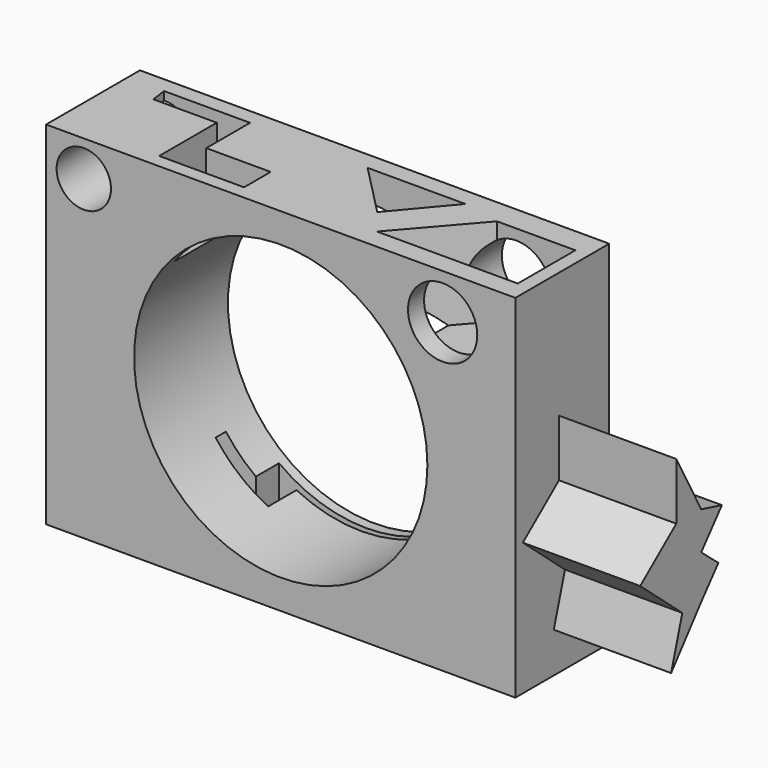
from build123d import *

# Parameters (mm, degrees)
F0_W      = 101.6
F0_H      = 76.2
F1_DEPTH  = 25.4
F2_R      = 31.75
F3_DEPTH  = 25.4
F3_FACE_R = 31.75
F4_DEPTH  = 50.801
F5_R      = 5.884043
F6_DEPTH  = 25.401
F7_R      = 7.500717
F8_DEPTH  = 25.401
F10_DEPTH = 19.05
F12_DEPTH = 19.05
F14_DEPTH = 19.05
F16_DEPTH = 19.05
F18_DEPTH = 25.4


with BuildPart() as f1:
    # F0 (on Front) → F1 (new body)
    with BuildSketch(Plane.XZ):
        with Locations((50.8, 38.1)):
            Rectangle(F0_W, F0_H)
    extrude(amount=F1_DEPTH)

    # F2 (on face) → F3 (join)
    with BuildSketch(Plane.XZ.offset(25.4)):
        with Locations((50.8, 38.1)):
            Circle(F2_R)
    extrude(amount=F3_DEPTH)

    # F3_face (on face) → F4 (cut, through all)
    with BuildSketch(Plane(origin=(50.8, -50.8, 38.1), x_dir=(1, 0, 0), z_dir=(0, -1, 0))):
        Circle(F3_FACE_R)
    extrude(amount=-F4_DEPTH, mode=Mode.SUBTRACT)

    # F5 (on face) → F6 (cut, through all)
    with BuildSketch(Plane.XZ.offset(25.4)):
        with Locations((8.164548, 68.496935)):
            Circle(F5_R)
    extrude(amount=-F6_DEPTH, mode=Mode.SUBTRACT)

    # F7 (on face) → F8 (cut, through all)
    with BuildSketch(Plane.XZ.offset(25.4)):
        with Locations((85.848674, 66.40365)):
            Circle(F7_R)
    extrude(amount=-F8_DEPTH, mode=Mode.SUBTRACT)

    # F9 (on face) → F10 (cut)
    with BuildSketch(Plane.XY.offset(76.2)):
        Polygon((73.521554, -3.837689), (52.356116, -3.837689), (63.75289, -15.46705), align=None)
    extrude(amount=-F10_DEPTH, mode=Mode.SUBTRACT)

    # F11 (on face) → F12 (cut)
    with BuildSketch(Plane.XY.offset(76.2)):
        Polygon((26.538938, -3.372515), (7.931962, -3.372515), (8.397136, -6.861323), (22.119781, -6.861323), (22.119781, -22.444667), (26.538938, -22.444667), (40.49417, -22.444667), (40.49417, -15.234463), (26.538938, -15.234463), align=None)
    extrude(amount=-F12_DEPTH, mode=Mode.SUBTRACT)

    # F13 (on face) → F14 (cut)
    with BuildSketch(Plane.XY.offset(76.2)):
        Polygon((98.640978, -5.465799), (81.662104, -5.465799), (68.172053, -21.049144), (98.640978, -21.049144), align=None)
    extrude(amount=-F14_DEPTH, mode=Mode.SUBTRACT)

    # F15 (on face) → F16 (cut)
    with BuildSketch(Plane(origin=(0, 0, 0), x_dir=(1, 0, 0), z_dir=(0, 0, -1))):
        Polygon((18.863561, 23.375014), (3.280218, 23.375014), (3.280218, 19.188445), (13.746641, 19.188445), (13.746641, 8.489433), (18.398385, 8.489433), (31.888444, 8.489433), (31.888444, 2.209579), (69.567569, 2.209579), (69.567569, 5.698387), (86.546443, 5.698387), (86.546443, 10.582718), (86.546443, 16.629985), (96.547693, 16.629985), (96.547693, 21.746906), (83.290212, 21.746906), (83.290212, 11.280479), (64.915828, 11.280479), (64.915828, 3.605102), (36.772776, 3.605102), (36.772776, 11.280479), (18.863561, 11.280479), align=None)
    extrude(amount=-F16_DEPTH, mode=Mode.SUBTRACT)

    # F17 (on face) → F18 (join)
    with BuildSketch(Plane.YZ.offset(101.6)):
        Polygon((-23.375014, 28.724518), (-11.978242, 18.955858), (-15.001875, 8.72202), (-6.861323, 18.955858), (-2.209579, 24.537953), (-6.861323, 28.414406), (-1.256352, 35.140372), (-6.861323, 36.632486), (-13.606353, 48.959609), (-13.606353, 36.632486), align=None)
    extrude(amount=F18_DEPTH)


solid = f1.part
